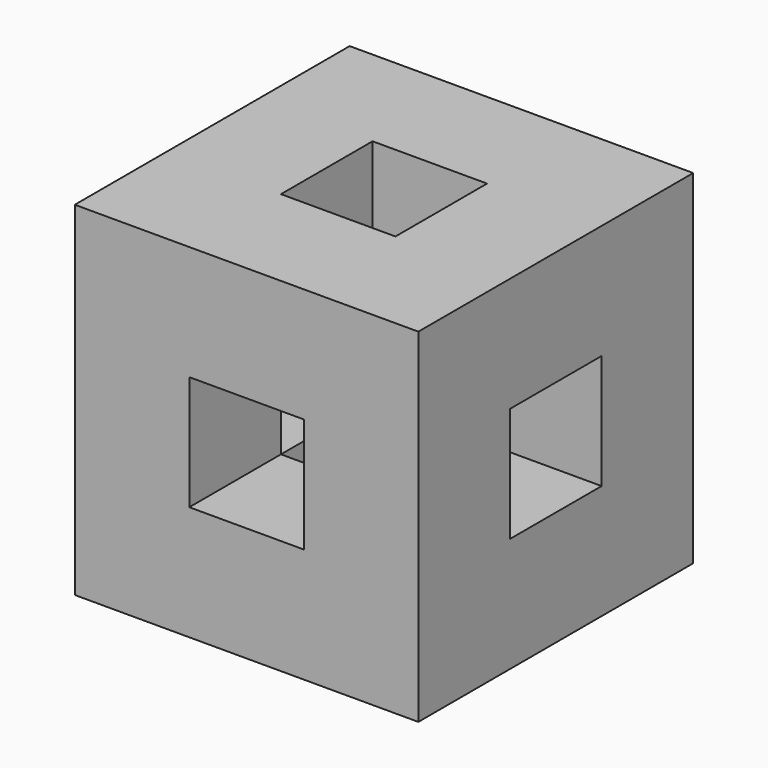
from build123d import *

# Parameters (mm, degrees)
F1_W     = 30
F1_H     = 30
F1_W_2   = 10
F1_H_2   = 10
F2_DEPTH = 30
F3_W     = 10
F3_H     = 10
F4_DEPTH = 30
F5_W     = 10
F5_H     = 10
F6_DEPTH = 30


with BuildPart() as f2:
    # F1 (on Top) → F2 (new body)
    with BuildSketch(Plane.XY):
        Rectangle(F1_W, F1_H)
        Rectangle(F1_W_2, F1_H_2, mode=Mode.SUBTRACT)
    extrude(amount=F2_DEPTH)

    # F3 (on face) → F4 (cut, through all)
    with BuildSketch(Plane(origin=(0, 15, 0), x_dir=(-1, 0, 0), z_dir=(0, 1, 0))):
        with Locations((0, 15)):
            Rectangle(F3_W, F3_H)
    extrude(amount=-F4_DEPTH, mode=Mode.SUBTRACT)

    # F5 (on face) → F6 (cut, through all)
    with BuildSketch(Plane(origin=(-15, 0, 0), x_dir=(0, -1, 0), z_dir=(-1, 0, 0))):
        with Locations((0, 15)):
            Rectangle(F5_W, F5_H)
    extrude(amount=-F6_DEPTH, mode=Mode.SUBTRACT)


solid = f2.part
